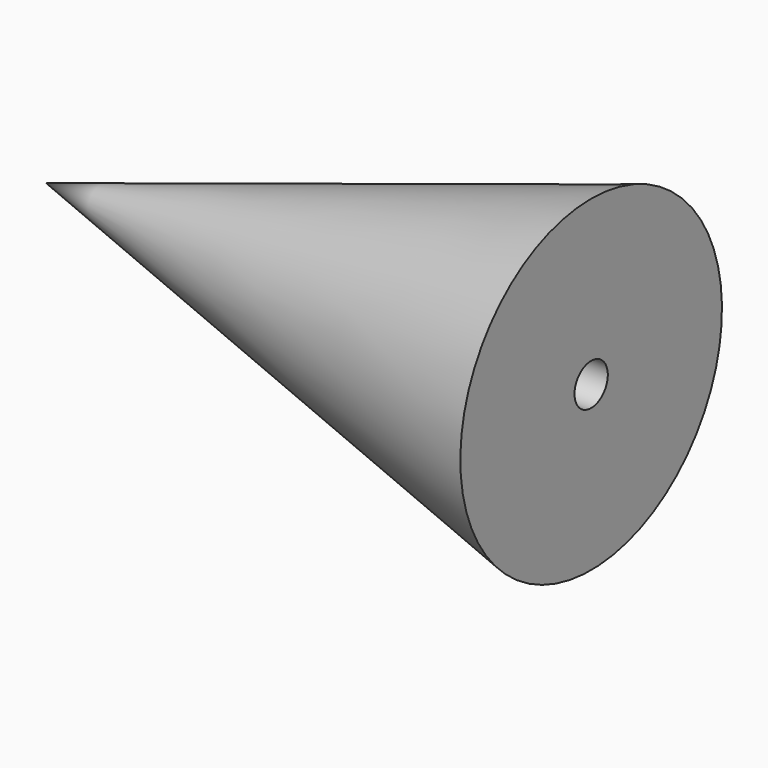
from build123d import *

# Parameters (mm, degrees)
F3_D     = 4.2
F3_DEPTH = 20
F3_TIP   = 1.2618073


with BuildPart() as f1:
    # F0 (on Front) → F1 (revolve)
    with BuildSketch(Plane.XZ):
        Polygon((55, 16.5), (0, 0), (55, 0), align=None)
    revolve(axis=Axis((27.5, 0, 0), (-1, 0, 0)))

    # F3
    with Locations(Plane.YZ.offset(55)):
        with Locations((0, 0)):
            Hole(F3_D / 2, depth=F3_DEPTH)
            with Locations((0, 0, -(F3_DEPTH + F3_TIP / 2))):  # 118° drill point
                Cone(0, F3_D / 2, F3_TIP, mode=Mode.SUBTRACT)


solid = f1.part
